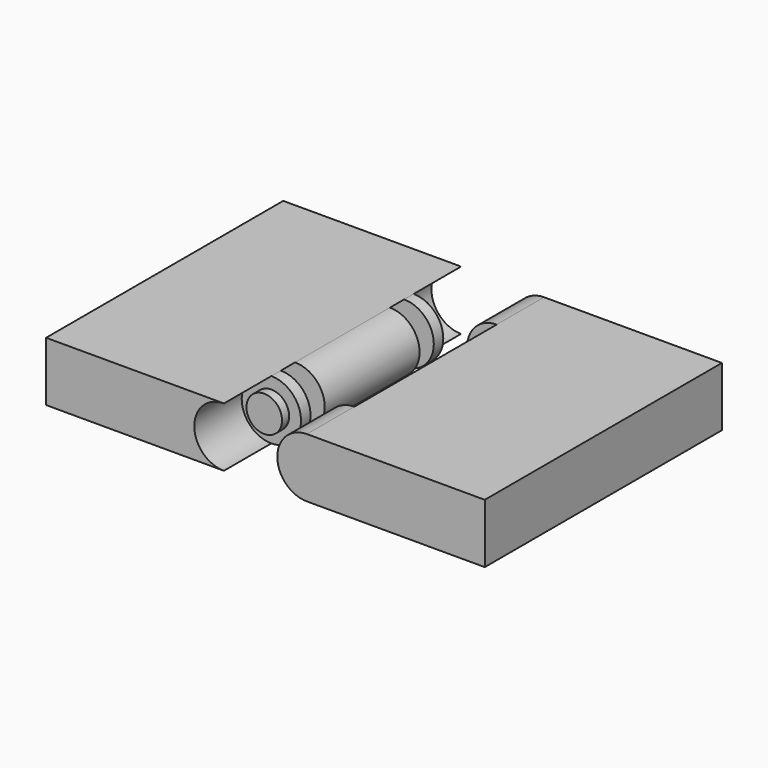
from build123d import *

# Parameters (mm, degrees)
CYLINDER007_R          = 3
CYLINDER007_DEPTH      = 1.5
CYLINDER007_ROLL_ANGLE = 90
CYLINDER006_R          = 3
CYLINDER006_DEPTH      = 1.5
CYLINDER006_ROLL_ANGLE = 90
CYLINDER003_R          = 5
CYLINDER003_DEPTH      = 30
CYLINDER003_ROLL_ANGLE = 90
CYLINDER_R             = 5
CYLINDER_DEPTH         = 50
CYLINDER_ROLL_ANGLE    = 90
BOX_W                  = 30
BOX_H                  = 50
BOX_DEPTH              = 10
CYLINDER009_R          = 5
CYLINDER009_DEPTH      = 3
CYLINDER009_ROLL_ANGLE = 90
CYLINDER008_R          = 5
CYLINDER008_DEPTH      = 3
CYLINDER008_ROLL_ANGLE = 90
CYLINDER004_R          = 3
CYLINDER004_DEPTH      = 1.5
CYLINDER004_ROLL_ANGLE = 90
CYLINDER005_R          = 3
CYLINDER005_DEPTH      = 1.5
CYLINDER005_ROLL_ANGLE = 90
CYLINDER002_R          = 5
CYLINDER002_DEPTH      = 10
CYLINDER002_ROLL_ANGLE = 90
CYLINDER001_R          = 5
CYLINDER001_DEPTH      = 10
CYLINDER001_ROLL_ANGLE = 90


with BuildPart() as cylinder007:
    # Cylinder007 → Cylinder007 (new body)
    with BuildSketch(Plane.XY):
        Circle(CYLINDER007_R)
    extrude(amount=CYLINDER007_DEPTH)


with BuildPart() as cylinder007_1:
    # Cylinder007 roll: moved
    add(cylinder007.part.rotate(Axis((0, 0, 0), (1, 0, 0)), CYLINDER007_ROLL_ANGLE))


with BuildPart() as cylinder007_2:
    # Cylinder007 placement: moved
    add(cylinder007_1.part.moved(Location((44, 41.5, 5))))


with BuildPart() as cylinder006:
    # Cylinder006 → Cylinder006 (new body)
    with BuildSketch(Plane.XY):
        Circle(CYLINDER006_R)
    extrude(amount=CYLINDER006_DEPTH)


with BuildPart() as cylinder006_1:
    # Cylinder006 roll: moved
    add(cylinder006.part.rotate(Axis((0, 0, 0), (1, 0, 0)), CYLINDER006_ROLL_ANGLE))


with BuildPart() as cylinder006_2:
    # Cylinder006 placement: moved
    add(cylinder006_1.part.moved(Location((44, 10, 5))))


with BuildPart() as cylinder003:
    # Cylinder003 → Cylinder003 (new body)
    with BuildSketch(Plane.XY):
        Circle(CYLINDER003_R)
    extrude(amount=CYLINDER003_DEPTH)


with BuildPart() as cylinder003_1:
    # Cylinder003 roll: moved
    add(cylinder003.part.rotate(Axis((0, 0, 0), (1, 0, 0)), CYLINDER003_ROLL_ANGLE))


with BuildPart() as cylinder003_2:
    # Cylinder003 placement: moved
    add(cylinder003_1.part.moved(Location((44, 40, 5))))


with BuildPart() as cylinder:
    # Cylinder → Cylinder (new body)
    with BuildSketch(Plane.XY):
        Circle(CYLINDER_R)
    extrude(amount=CYLINDER_DEPTH)


with BuildPart() as cylinder_1:
    # Cylinder roll: moved
    add(cylinder.part.rotate(Axis((0, 0, 0), (1, 0, 0)), CYLINDER_ROLL_ANGLE))


with BuildPart() as cylinder_2:
    # Cylinder placement: moved
    add(cylinder_1.part.moved(Location((30, 50, 5))))


with BuildPart() as fusion:
    # Box → Box (new body)
    with BuildSketch(Plane.XY):
        with Locations((15, 25)):
            Rectangle(BOX_W, BOX_H)
    extrude(amount=BOX_DEPTH)

    # Fusion: union Cylinder
    add(cylinder_2.part)


with BuildPart() as cut004:
    # Part__Mirroring: instance of Fusion
    add(fusion.part.mirror(Plane(origin=(0, 0, 0), x_dir=(0, -1, 0), z_dir=(1, 0, 0))))


with BuildPart() as cut004_1:
    # Part__Mirroring placement: moved
    add(cut004.part.moved(Location((74, 0, 0))))

    # Cut002: cut Cylinder003
    add(cylinder003_2.part, mode=Mode.SUBTRACT)

    # Cut003: cut Cylinder006
    add(cylinder006_2.part, mode=Mode.SUBTRACT)

    # Cut004: cut Cylinder007
    add(cylinder007_2.part, mode=Mode.SUBTRACT)


with BuildPart() as cylinder009:
    # Cylinder009 → Cylinder009 (new body)
    with BuildSketch(Plane.XY):
        Circle(CYLINDER009_R)
    extrude(amount=CYLINDER009_DEPTH)


with BuildPart() as cylinder009_1:
    # Cylinder009 roll: moved
    add(cylinder009.part.rotate(Axis((0, 0, 0), (1, 0, 0)), CYLINDER009_ROLL_ANGLE))


with BuildPart() as cylinder009_2:
    # Cylinder009 placement: moved
    add(cylinder009_1.part.moved(Location((30, 38, 5))))


with BuildPart() as cylinder008:
    # Cylinder008 → Cylinder008 (new body)
    with BuildSketch(Plane.XY):
        Circle(CYLINDER008_R)
    extrude(amount=CYLINDER008_DEPTH)


with BuildPart() as cylinder008_1:
    # Cylinder008 roll: moved
    add(cylinder008.part.rotate(Axis((0, 0, 0), (1, 0, 0)), CYLINDER008_ROLL_ANGLE))


with BuildPart() as cylinder008_2:
    # Cylinder008 placement: moved
    add(cylinder008_1.part.moved(Location((30, 15, 5))))


with BuildPart() as cylinder004:
    # Cylinder004 → Cylinder004 (new body)
    with BuildSketch(Plane.XY):
        Circle(CYLINDER004_R)
    extrude(amount=CYLINDER004_DEPTH)


with BuildPart() as cylinder004_1:
    # Cylinder004 roll: moved
    add(cylinder004.part.rotate(Axis((0, 0, 0), (1, 0, 0)), CYLINDER004_ROLL_ANGLE))


with BuildPart() as cylinder004_2:
    # Cylinder004 placement: moved
    add(cylinder004_1.part.moved(Location((30, 10, 5))))


with BuildPart() as cylinder005:
    # Cylinder005 → Cylinder005 (new body)
    with BuildSketch(Plane.XY):
        Circle(CYLINDER005_R)
    extrude(amount=CYLINDER005_DEPTH)


with BuildPart() as cylinder005_1:
    # Cylinder005 roll: moved
    add(cylinder005.part.rotate(Axis((0, 0, 0), (1, 0, 0)), CYLINDER005_ROLL_ANGLE))


with BuildPart() as cylinder005_2:
    # Cylinder005 placement: moved
    add(cylinder005_1.part.moved(Location((30, 41.5, 5))))


with BuildPart() as cylinder002:
    # Cylinder002 → Cylinder002 (new body)
    with BuildSketch(Plane.XY):
        Circle(CYLINDER002_R)
    extrude(amount=CYLINDER002_DEPTH)


with BuildPart() as cylinder002_1:
    # Cylinder002 roll: moved
    add(cylinder002.part.rotate(Axis((0, 0, 0), (1, 0, 0)), CYLINDER002_ROLL_ANGLE))


with BuildPart() as cylinder002_2:
    # Cylinder002 placement: moved
    add(cylinder002_1.part.moved(Location((30, 50, 5))))


with BuildPart() as cylinder001:
    # Cylinder001 → Cylinder001 (new body)
    with BuildSketch(Plane.XY):
        Circle(CYLINDER001_R)
    extrude(amount=CYLINDER001_DEPTH)


with BuildPart() as cylinder001_1:
    # Cylinder001 roll: moved
    add(cylinder001.part.rotate(Axis((0, 0, 0), (1, 0, 0)), CYLINDER001_ROLL_ANGLE))


with BuildPart() as cylinder001_2:
    # Cylinder001 placement: moved
    add(cylinder001_1.part.moved(Location((30, 10, 5))))


with BuildPart() as cut006:
    # Cut base: copy of Fusion
    add(fusion.part)

    # Cut: cut Cylinder001
    add(cylinder001_2.part, mode=Mode.SUBTRACT)

    # Cut001: cut Cylinder002
    add(cylinder002_2.part, mode=Mode.SUBTRACT)

    # Fusion001: union Cylinder005
    add(cylinder005_2.part)

    # Fusion002: union Cylinder004
    add(cylinder004_2.part)

    # Cut005: cut Cylinder008
    add(cylinder008_2.part, mode=Mode.SUBTRACT)

    # Cut006: cut Cylinder009
    add(cylinder009_2.part, mode=Mode.SUBTRACT)


solid = Compound([cut004_1.part, cut006.part])
